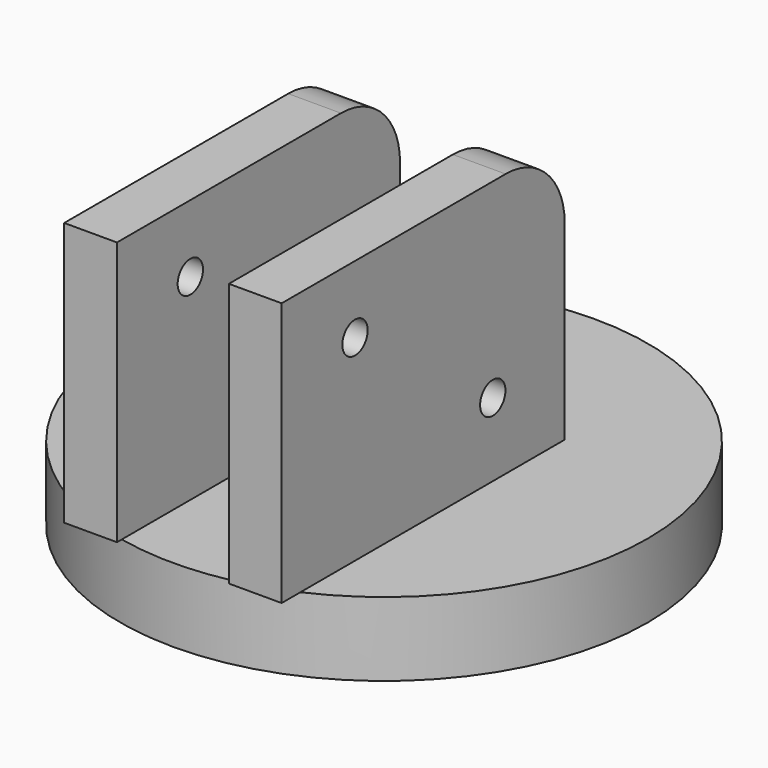
from build123d import *

# Parameters (mm, degrees)
SKETCH_R     = 25
PAD_DEPTH    = 7
SKETCH001_W  = 5
SKETCH001_H  = 33.522271
PAD001_DEPTH = 25
FILLET_R     = 7
SKETCH002_R  = 1.5
POCKET_DEPTH = 35.301


with BuildPart() as part:
    # Sketch → Pad (new body)
    with BuildSketch(Plane.XY):
        Circle(SKETCH_R)
    extrude(amount=PAD_DEPTH)

    # Sketch001 → Pad001 (new body)
    with BuildSketch(Plane.XY.offset(7)):
        with Locations((7.8, -8.238865)):
            Rectangle(SKETCH001_W, SKETCH001_H)
    pad001 = extrude(amount=PAD001_DEPTH)

    # Mirrored: Pad001 across Sketch001 V_Axis
    add(pad001.mirror(Plane(origin=(0, 0, 7), x_dir=(0, 0, 1), z_dir=(1, 0, 0))))

    # Fillet
    fillet_edges = [part.edges().sort_by_distance(p)[0] for p in [
        (7.8, 8.522271, 32),
        (-7.8, 8.522271, 32),
    ]]
    fillet(fillet_edges, radius=FILLET_R)

    # Sketch002 → Pocket (cut, through all)
    with BuildSketch(Plane.YZ.offset(10.3)):
        with Locations((0, 13.956767)):
            Circle(SKETCH002_R)
        with Locations((-16.31287, 25.611097)):
            Circle(SKETCH002_R)
    extrude(amount=-POCKET_DEPTH, mode=Mode.SUBTRACT)


solid = part.part
